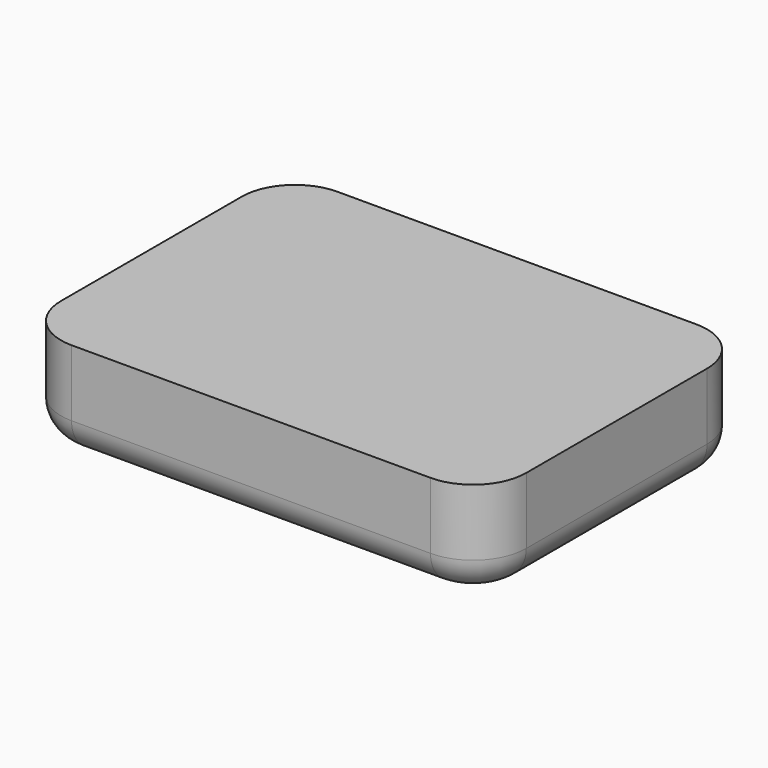
from build123d import *

# Parameters (mm, degrees)
F1_DEPTH = 19.05
F2_R     = 6.35


with BuildPart() as f1:
    # F0 (on Top) → F1 (new body)
    with BuildSketch(Plane.XY):
        with BuildLine():
            Line((34.29, 31.75), (-34.29, 31.75))
            ThreePointArc((-34.29, 31.75), (-41.474205, 28.774205), (-44.45, 21.59))
            Line((-44.45, 21.59), (-44.45, -21.59))
            ThreePointArc((-44.45, -21.59), (-41.474205, -28.774205), (-34.29, -31.75))
            Line((-34.29, -31.75), (34.29, -31.75))
            ThreePointArc((34.29, -31.75), (41.474205, -28.774205), (44.45, -21.59))
            Line((44.45, -21.59), (44.45, 21.59))
            ThreePointArc((44.45, 21.59), (41.474205, 28.774205), (34.29, 31.75))
        make_face()
    extrude(amount=F1_DEPTH)

    # F2
    f2_edges = [f1.edges().sort_by_distance(p)[0] for p in [
        (-41.474205, -28.774205, 0),
    ]]
    fillet(f2_edges, radius=F2_R)


solid = f1.part
